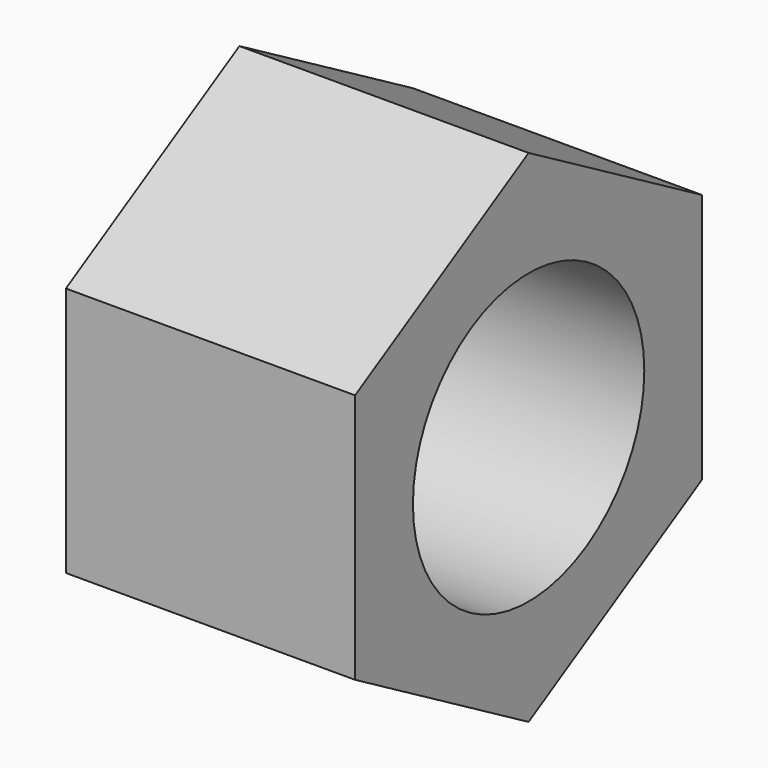
from build123d import *

# Parameters (mm, degrees)
F1_DEPTH = 6.35
F2_R     = 6.35
F3_DEPTH = 12.7


with BuildPart() as f1:
    # F0 (on Right) → F1 (new body, symmetric)
    with BuildSketch(Plane.YZ):
        Polygon((9.525, -5.499261), (9.525, 5.499261), (0, 10.998523), (-9.525, 5.499261), (-9.525, -5.499261), (0, -10.998523), align=None)
    extrude(amount=F1_DEPTH, both=True)

    # F2 (on face) → F3 (cut, symmetric)
    with BuildSketch(Plane.YZ.offset(6.35)):
        Circle(F2_R)
    extrude(amount=F3_DEPTH, both=True, mode=Mode.SUBTRACT)


solid = f1.part
